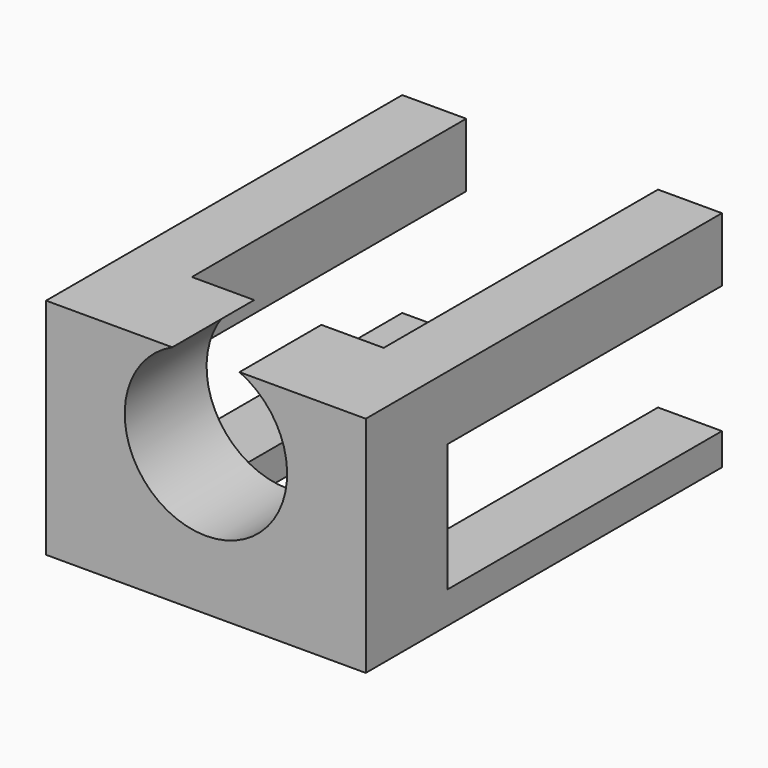
from build123d import *

# Parameters (mm, degrees)
F1_DEPTH = 32
F2_W     = 20
F2_H     = 20
F3_DEPTH = 107.25
F4_W     = 139.25
F4_H     = 10
F5_DEPTH = 150


with BuildPart() as f1:
    # F0 (on Front) → F1 (new body)
    with BuildSketch(Plane.XZ):
        with BuildLine():
            Line((50, -40), (50, 40))
            Line((50, 40), (10.506873, 40))
            ThreePointArc((10.506873, 40), (0, -8.525), (-10.506873, 40))
            Line((-10.506873, 40), (-50, 40))
            Line((-50, 40), (-50, -40))
            Line((-50, -40), (50, -40))
        make_face()
    extrude(amount=F1_DEPTH)

    # F2 (on face) → F3 (join)
    with BuildSketch(Plane(origin=(0, 0, 0), x_dir=(-1, 0, 0), z_dir=(0, 1, 0))):
        with Locations((-40, 30)):
            Rectangle(F2_W, F2_H)
        with Locations((40, 30)):
            Rectangle(F2_W, F2_H)
        with Locations((40, -30)):
            Rectangle(F2_W, F2_H)
        with Locations((-40, -30)):
            Rectangle(F2_W, F2_H)
    extrude(amount=F3_DEPTH)

    # F4 (on face) → F5 (cut)
    with BuildSketch(Plane.YZ.offset(50)):
        with Locations((37.625, -35)):
            Rectangle(F4_W, F4_H)
    extrude(amount=-F5_DEPTH, mode=Mode.SUBTRACT)


solid = f1.part
